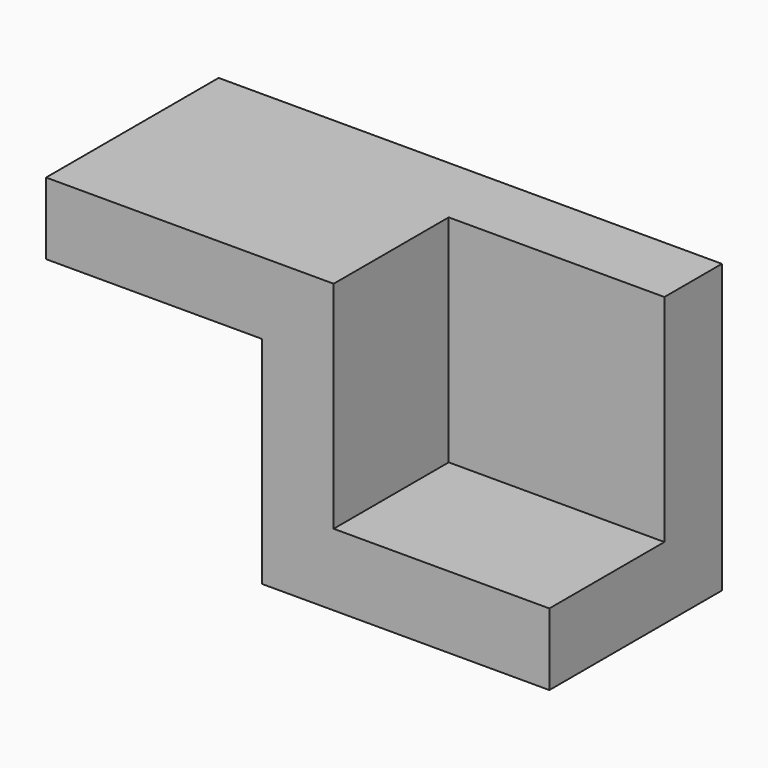
from build123d import *

# Parameters (mm, degrees)
F1_DEPTH = 30
F2_W     = 30
F2_H     = 30
F3_DEPTH = 20


with BuildPart() as f1:
    # F0 (on Front) → F1 (new body)
    with BuildSketch(Plane.XZ):
        Polygon((0, 10), (0, 0), (30, 0), (30, -30), (70, -30), (70, 10), align=None)
    extrude(amount=F1_DEPTH)

    # F2 (on face) → F3 (cut)
    with BuildSketch(Plane.XZ.offset(30)):
        with Locations((55, -5)):
            Rectangle(F2_W, F2_H)
    extrude(amount=-F3_DEPTH, mode=Mode.SUBTRACT)


solid = f1.part
